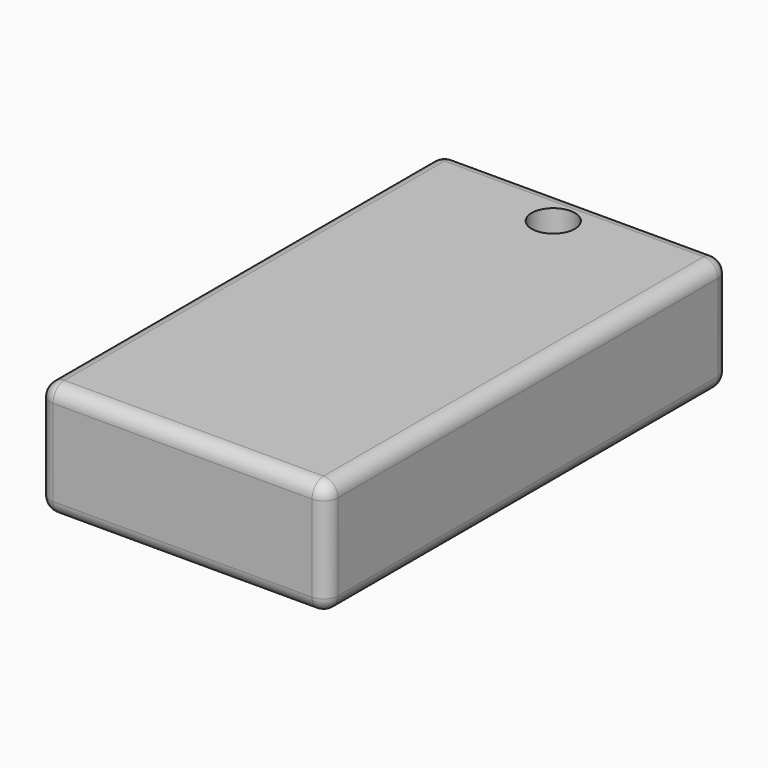
from build123d import *

# Parameters (mm, degrees)
F0_W     = 20
F0_H     = 35
F0_R     = 1.5
F1_DEPTH = 8
F2_R     = 1


with BuildPart() as f1:
    # F0 (on Top) → F1 (new body)
    with BuildSketch(Plane.XY):
        Rectangle(F0_W, F0_H)
        with Locations((0, 14.7)):
            Circle(F0_R, mode=Mode.SUBTRACT)
    extrude(amount=F1_DEPTH)

    # F2
    f2_edges = [f1.edges().sort_by_distance(p)[0] for p in [
        (0, 17.5, 8),
        (10, 0, 8),
        (-10, 0, 8),
        (0, -17.5, 8),
        (-10, 0, 0),
        (-10, 17.5, 4),
        (-10, -17.5, 4),
        (10, 0, 0),
        (10, 17.5, 4),
        (10, -17.5, 4),
        (0, -17.5, 0),
        (0, 17.5, 0),
    ]]
    fillet(f2_edges, radius=F2_R)


solid = f1.part
